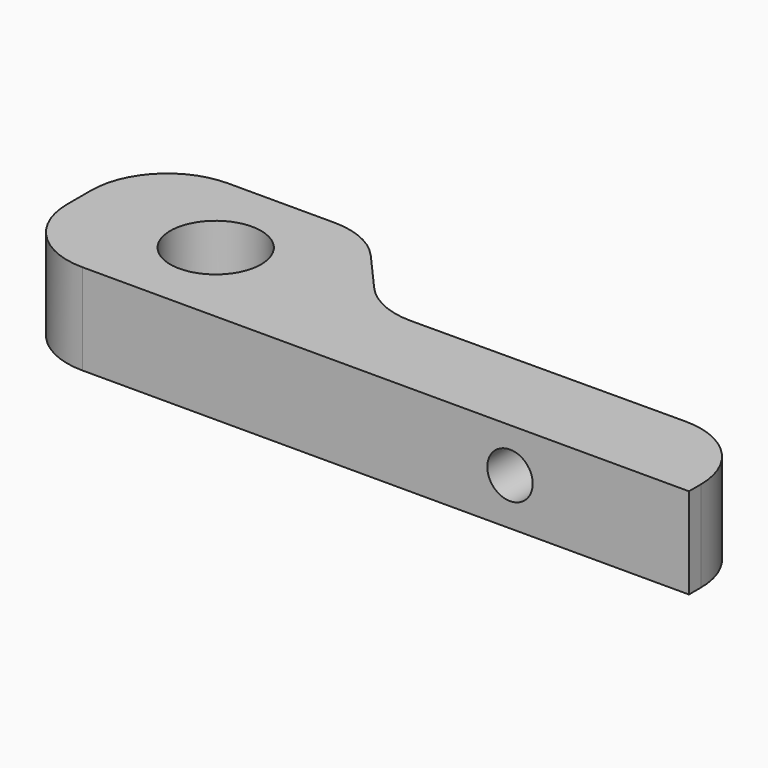
from build123d import *

# Parameters (mm, degrees)
F0_R     = 3
F2_DEPTH = 6
F3_D     = 3
F4_R     = 5
F5_R     = 5
F6_R     = 5
F7_R     = 5


with BuildPart() as f2:
    # F0 (on Top) → F2 (new body)
    with BuildSketch(Plane.XY):
        Polygon((-19.694119, 12), (-19.694119, 0), (25.346741, 0), (25.346741, 6), (0, 5.890472), (-5.3996, 12), align=None)
        with Locations((-10.694119, 6)):
            Circle(F0_R, mode=Mode.SUBTRACT)
    extrude(amount=F2_DEPTH)

    # F3 (through all)
    with Locations(Plane.XZ):
        with Locations((13.534061, 3.085485)):
            Hole(F3_D / 2)

    # F4
    f4_edges = [f2.edges().sort_by_distance(p)[0] for p in [
        (-19.694119, 12, 3),
        (-19.694119, 0, 3),
    ]]
    fillet(f4_edges, radius=F4_R)

    # F5
    f5_edges = [f2.edges().sort_by_distance(p)[0] for p in [
        (-5.3996, 12, 3),
    ]]
    fillet(f5_edges, radius=F5_R)

    # F6
    f6_edges = [f2.edges().sort_by_distance(p)[0] for p in [
        (0, 5.890472, 3),
    ]]
    fillet(f6_edges, radius=F6_R)

    # F7
    f7_edges = [f2.edges().sort_by_distance(p)[0] for p in [
        (25.346741, 6, 3),
    ]]
    fillet(f7_edges, radius=F7_R)


solid = f2.part
